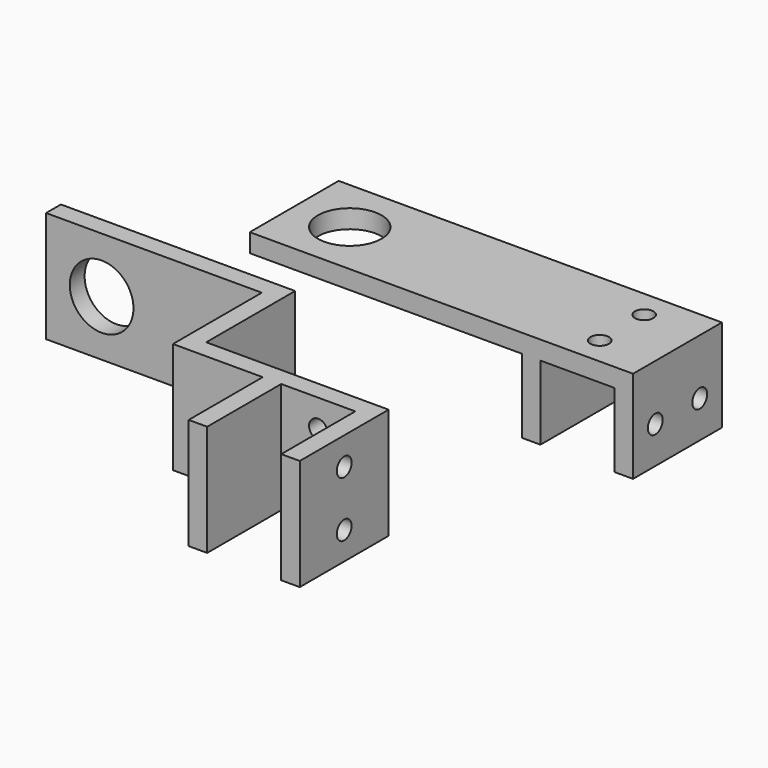
from build123d import *

# Parameters (mm, degrees)
F0_W      = 5
F0_H      = 30
F0_H_2    = 25
F0_W_2    = 73.5
F0_R      = 8.6
F0_W_3    = 20
F0_R_2    = 2.5
F1_DEPTH  = 5
F2_DEPTH  = 20
F3_R      = 2.5
F4_DEPTH  = 10
F0_W_4    = 9
F0_H_3    = 5
F5_DEPTH  = 30
F6_R      = 8.6
F7_DEPTH  = 5
F8_R      = 2.5
F9_DEPTH  = 5
F10_R     = 2.5
F11_DEPTH = 5


with BuildPart() as f1:
    # F0 (on Top) → F1 (new body)
    with BuildSketch(Plane.XY):
        with Locations((49.25, 0)):
            Rectangle(F0_W, F0_H)
        Polygon((-2.5, -97.5), (2.5, -97.5), (2.5, -67.5), (-51.75, -67.5), (-51.75, -72.5), (-2.5, -72.5), align=None)
        with Locations((49.25, -115)):
            Rectangle(F0_W, F0_H_2)
        with Locations((24.25, -115)):
            Rectangle(F0_W, F0_H_2)
        with Locations((24.25, 0)):
            Rectangle(F0_W, F0_H)
        with Locations((-15, 0)):
            Rectangle(F0_W_2, F0_H)
        with Locations((-36.75, 0)):
            Circle(F0_R, mode=Mode.SUBTRACT)
        with Locations((36.75, 0)):
            Rectangle(F0_W_3, F0_H)
        with Locations((36.75, -7.5)):
            Circle(F0_R_2, mode=Mode.SUBTRACT)
        with Locations((36.75, 7.5)):
            Circle(F0_R_2, mode=Mode.SUBTRACT)
        Polygon((51.75, -102.5), (51.75, -97.5), (2.5, -97.5), (-2.5, -97.5), (-2.5, -102.5), (21.75, -102.5), (26.75, -102.5), (46.75, -102.5), align=None)
    extrude(amount=F1_DEPTH)

    # F0 (on Top) → F2 (join)
    with BuildSketch(Plane.XY):
        with Locations((24.25, 0)):
            Rectangle(F0_W, F0_H)
        with Locations((49.25, 0)):
            Rectangle(F0_W, F0_H)
    extrude(amount=-F2_DEPTH)

    # F3 (on face) → F4 (cut)
    with BuildSketch(Plane.YZ.offset(51.75)):
        with Locations((-7.5, -10)):
            Circle(F3_R)
        with Locations((7.5, -10)):
            Circle(F3_R)
    extrude(amount=-F4_DEPTH, mode=Mode.SUBTRACT)

    # F0 (on Top) → F5 (join)
    with BuildSketch(Plane.XY):
        Polygon((-2.5, -97.5), (2.5, -97.5), (2.5, -67.5), (-51.75, -67.5), (-51.75, -72.5), (-2.5, -72.5), align=None)
        Polygon((51.75, -102.5), (51.75, -97.5), (2.5, -97.5), (-2.5, -97.5), (-2.5, -102.5), (21.75, -102.5), (26.75, -102.5), (46.75, -102.5), align=None)
        with Locations((24.25, -115)):
            Rectangle(F0_W, F0_H_2)
        with Locations((49.25, -115)):
            Rectangle(F0_W, F0_H_2)
        with Locations((-56.25, -70)):
            Rectangle(F0_W_4, F0_H_3)
    extrude(amount=F5_DEPTH)

    # F6 (on face) → F7 (cut)
    with BuildSketch(Plane(origin=(0, -67.5, 0), x_dir=(-1, 0, 0), z_dir=(0, 1, 0))):
        with Locations((45.75, 15)):
            Circle(F6_R)
    extrude(amount=-F7_DEPTH, mode=Mode.SUBTRACT)

    # F8 (on face) → F9 (cut)
    with BuildSketch(Plane(origin=(0, -97.5, 0), x_dir=(-1, 0, 0), z_dir=(0, 1, 0))):
        with Locations((-36.75, 7.5)):
            Circle(F8_R)
        with Locations((-36.75, 22.5)):
            Circle(F8_R)
    extrude(amount=-F9_DEPTH, mode=Mode.SUBTRACT)

    # F10 (on face) → F11 (cut)
    with BuildSketch(Plane.YZ.offset(51.75)):
        with Locations((-112.5, 22.5)):
            Circle(F10_R)
        with Locations((-112.5, 7.5)):
            Circle(F10_R)
    extrude(amount=-F11_DEPTH, mode=Mode.SUBTRACT)


solid = f1.part
